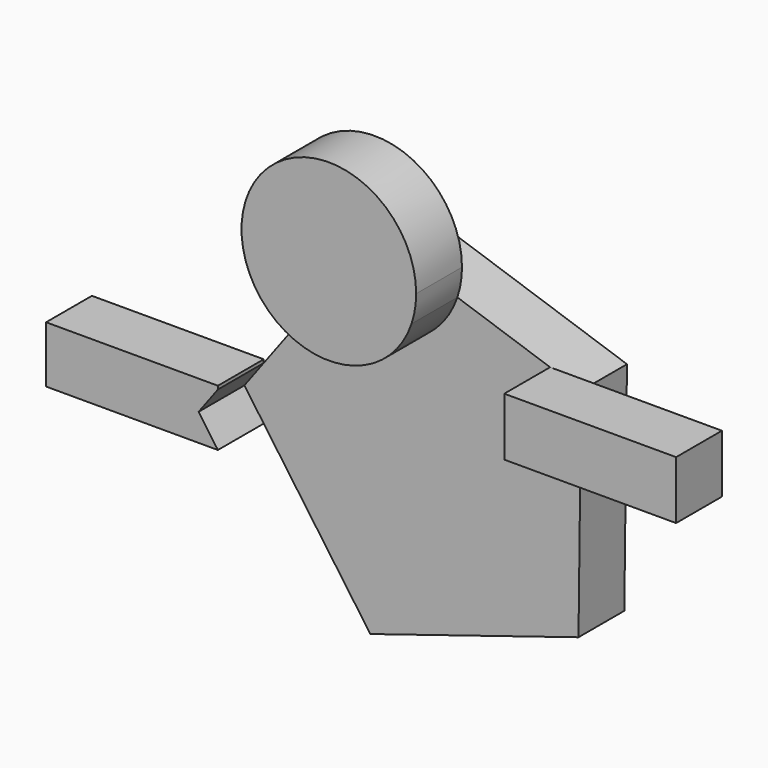
from build123d import *

# Parameters (mm, degrees)
F1_DEPTH = 25.4
F3_DEPTH = 25.4
F5_DEPTH = 25.4
F7_DEPTH = 25.4


with BuildPart() as f1:
    # F0 (on Front) → F1 (new body)
    with BuildSketch(Plane.XZ):
        Polygon((-110.262432, 4.826024), (-54.395086, -74.079327), (37.912321, -45.329418), (39.094091, 51.344354), (-52.482943, 82.342122), align=None)
    extrude(amount=F1_DEPTH)

    # F2 (on face) → F3 (join)
    with BuildSketch(Plane.XZ.offset(25.4)):
        with BuildLine():
            Line((-52.482943, 82.342122), (-75.627503, 51.291727))
            ThreePointArc((-75.627503, 51.291727), (-40.966677, 45.366815), (-15.8002, 69.925437))
            Line((-15.8002, 69.925437), (-52.482943, 82.342122))
        make_face()
        with BuildLine():
            ThreePointArc((-15.8002, 69.925437), (-14.27026, 76.050183), (-13.755722, 82.342122))
            ThreePointArc((-13.755722, 82.342122), (-69.85351, 116.955141), (-75.627503, 51.291727))
            Line((-75.627503, 51.291727), (-52.482943, 82.342122))
            Line((-52.482943, 82.342122), (-15.8002, 69.925437))
        make_face()
    extrude(amount=F3_DEPTH)

    # F6 (on face) → F7 (join)
    with BuildSketch(Plane.XZ.offset(25.4)):
        Polygon((101.518723, 56.007156), (25.318723, 56.007156), (39.094091, 51.344354), (38.836337, 30.258982), (101.518723, 30.258982), align=None)
        Polygon((39.094091, 51.344354), (25.318723, 56.007156), (25.318723, 30.258982), (38.836337, 30.258982), align=None)
    extrude(amount=F7_DEPTH)


with BuildPart() as f5:
    # F4 (on face) → F5 (new body)
    with BuildSketch(Plane.XZ.offset(25.4)):
        Polygon((-177.881277, -7.293741), (-101.681277, -7.293741), (-110.262432, 4.826024), (-101.681277, 16.338374), (-101.681277, 17.812694), (-177.881277, 17.812694), align=None)
    extrude(amount=F5_DEPTH)


solid = Compound([f1.part, f5.part])
